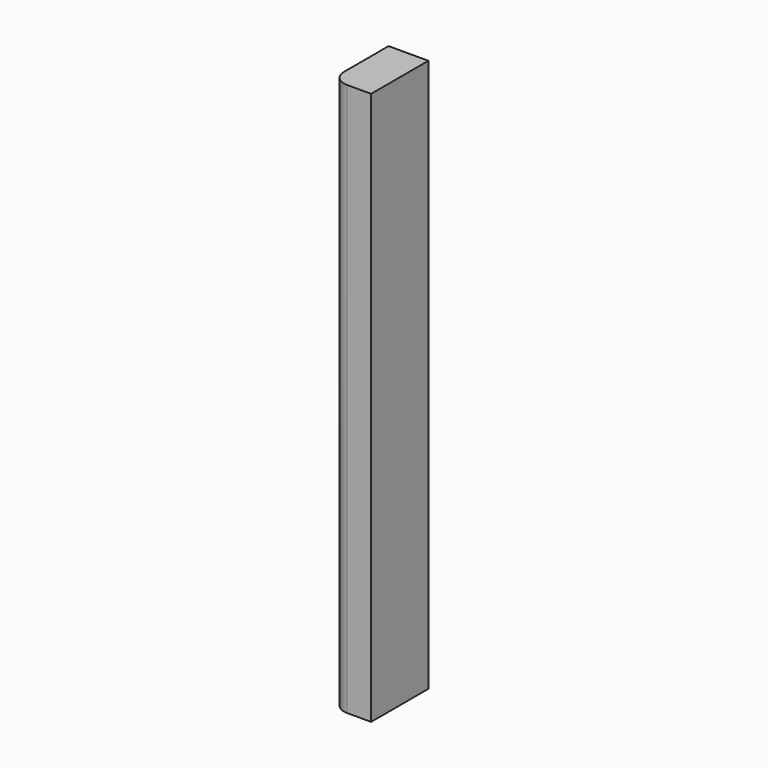
from build123d import *

# Parameters (mm, degrees)
F0_W     = 63.5
F0_H     = 114.3
F1_DEPTH = 882.65
F2_R     = 25.4


with BuildPart() as f1:
    # F0 (on Top) → F1 (new body)
    with BuildSketch(Plane.XY):
        with Locations((-19.327648, 43.190806)):
            Rectangle(F0_W, F0_H)
    extrude(amount=-F1_DEPTH)

    # F2
    f2_edges = [f1.edges().sort_by_distance(p)[0] for p in [
        (-51.077648, -13.959194, -441.325),
    ]]
    fillet(f2_edges, radius=F2_R)


solid = f1.part
